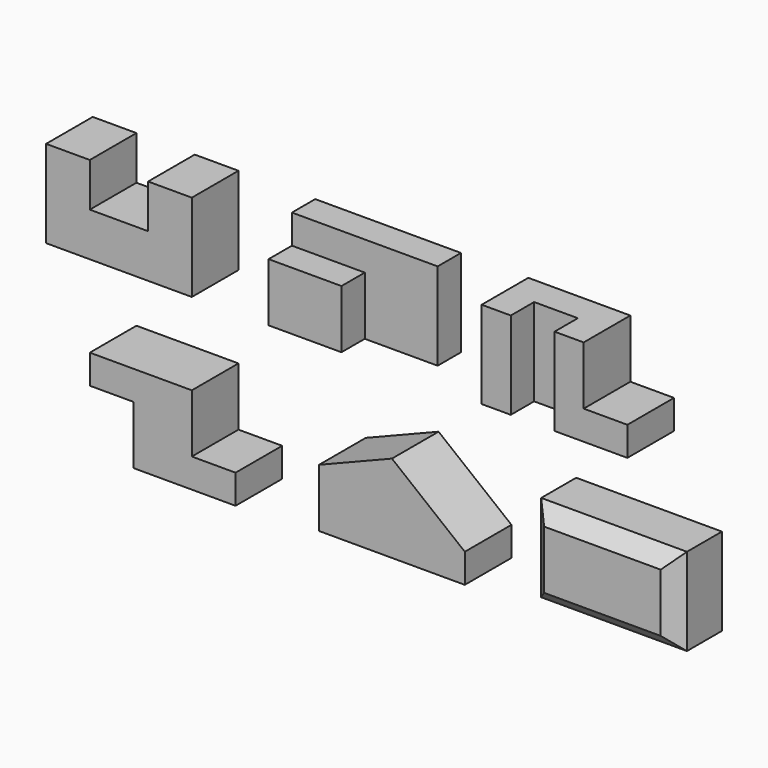
from build123d import *

# Parameters (mm, degrees)
F1_DEPTH  = 101.6
F3_DEPTH  = 101.6
F2_W      = 127
F2_H      = 101.6
F4_DEPTH  = 101.6
F5_DEPTH  = 50.8
F6_W      = 50.8
F6_H      = 152.4
F7_DEPTH  = 101.6
F6_W_2    = 76.2
F8_DEPTH  = 50.8
F9_DEPTH  = 101.6
F11_DEPTH = 101.6
F13_DEPTH = 101.6
F14_W     = 254
F14_H     = 152.4
F15_DEPTH = 101.6
F16_SIZE2 = 25.4
F16_SIZE  = 25.4


with BuildPart() as f1:
    # F0 (on Front) → F1 (new body)
    with BuildSketch(Plane.XZ):
        Polygon((-254, 0), (0, 0), (0, 152.4), (-76.2, 152.4), (-76.2, 76.2), (-177.8, 76.2), (-177.8, 152.4), (-254, 152.4), align=None)
    extrude(amount=F1_DEPTH)

    # F0 (on Front) → F3 (join)
    with BuildSketch(Plane.XZ):
        Polygon((-254, 0), (0, 0), (0, 152.4), (-76.2, 152.4), (-76.2, 76.2), (-177.8, 76.2), (-177.8, 152.4), (-254, 152.4), align=None)
    extrude(amount=F3_DEPTH)


with BuildPart() as f4:
    # F2 (on Front) → F4 (new body)
    with BuildSketch(Plane.XZ):
        with Locations((197.2706523503, 50.8)):
            Rectangle(F2_W, F2_H)
    extrude(amount=F4_DEPTH)

    # F2 (on Front) → F5 (join)
    with BuildSketch(Plane.XZ):
        with Locations((197.2706523503, 50.8)):
            Rectangle(F2_W, F2_H)
        Polygon((260.7706523503, 101.6), (260.7706523503, 0), (387.7706523503, 0), (387.7706523503, 152.4), (133.7706523503, 152.4), (133.7706523503, 101.6), align=None)
    extrude(amount=F5_DEPTH)


with BuildPart() as f7:
    # F6 (on Front) → F7 (new body)
    with BuildSketch(Plane.XZ):
        with Locations((530.5081609351, 76.2)):
            Rectangle(F6_W, F6_H)
    extrude(amount=F7_DEPTH)

    # F6 (on Front) → F8 (join)
    with BuildSketch(Plane.XZ):
        with Locations((530.5081609351, 76.2)):
            Rectangle(F6_W, F6_H)
        with Locations((594.0081609351, 76.2)):
            Rectangle(F6_W_2, F6_H)
        Polygon((632.1081609351, 152.4), (632.1081609351, 0), (759.1081609351, 0), (759.1081609351, 50.8), (682.9081609351, 50.8), (682.9081609351, 152.4), align=None)
    extrude(amount=F8_DEPTH)

    # F6 (on Front) → F9 (join)
    with BuildSketch(Plane.XZ):
        Polygon((632.1081609351, 152.4), (632.1081609351, 0), (759.1081609351, 0), (759.1081609351, 50.8), (682.9081609351, 50.8), (682.9081609351, 152.4), align=None)
    extrude(amount=F9_DEPTH)


with BuildPart() as f11:
    # F10 (on Front) → F11 (new body)
    with BuildSketch(Plane.XZ):
        Polygon((0, -244.7774564702), (0, -143.1774564702), (-177.8, -143.1774564702), (-177.8, -193.9774564702), (-101.6, -193.9774564702), (-101.6, -295.5774564702), (76.2, -295.5774564702), (76.2, -244.7774564702), align=None)
    extrude(amount=F11_DEPTH)


with BuildPart() as f13:
    # F12 (on Front) → F13 (new body)
    with BuildSketch(Plane.XZ):
        Polygon((348.7631558649, -134.522906208), (348.7631558649, -286.922906208), (475.7631558649, -286.922906208), (475.7631558649, -236.122906208), align=None)
        Polygon((221.7631558649, -185.322906208), (221.7631558649, -286.922906208), (348.7631558649, -286.922906208), (348.7631558649, -134.522906208), align=None)
    extrude(amount=F13_DEPTH)


with BuildPart() as f15:
    # F14 (on Front) → F15 (new body)
    with BuildSketch(Plane.XZ):
        with Locations((715.5619859695, -203.404637192)):
            Rectangle(F14_W, F14_H)
    extrude(amount=F15_DEPTH)

    # F16
    f16_edges = [f15.edges().sort_by_distance(p)[0] for p in [
        (588.561986, -101.6, -203.404637),
        (715.561986, -101.6, -279.604637),
        (842.561986, -101.6, -203.404637),
        (715.561986, -101.6, -127.204637),
    ]]
    chamfer(f16_edges, length=F16_SIZE, length2=F16_SIZE2)


solid = Compound([f1.part, f4.part, f7.part, f11.part, f13.part, f15.part])
